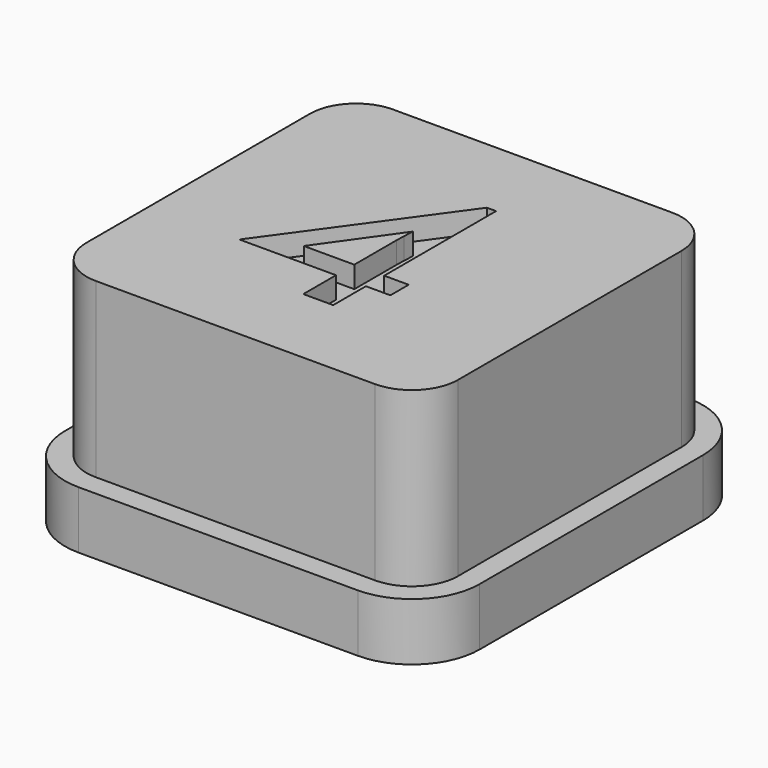
from build123d import *

# Parameters (mm, degrees)
F1_DEPTH = 2
F2_DEPTH = 8
F3_DEPTH = 8
F4_DEPTH = 7.25


with BuildPart() as f1:
    # F0 (on Top) → F1 (new body)
    with BuildSketch(Plane.XY):
        with BuildLine():
            Line((4.85, 7.2), (-4.85, 7.2))
            ThreePointArc((-4.85, 7.2), (-6.5117009358, 6.5117009358), (-7.2, 4.85))
            Line((-7.2, 4.85), (-7.2, -4.85))
            ThreePointArc((-7.2, -4.85), (-6.5117009358, -6.5117009358), (-4.85, -7.2))
            Line((-4.85, -7.2), (4.85, -7.2))
            ThreePointArc((4.85, -7.2), (6.5117009358, -6.5117009358), (7.2, -4.85))
            Line((7.2, -4.85), (7.2, 4.85))
            ThreePointArc((7.2, 4.85), (6.5117009358, 6.5117009358), (4.85, 7.2))
        make_face()
        with BuildLine():
            ThreePointArc((6.45, -4.85), (5.9813708499, -5.9813708499), (4.85, -6.45))
            Line((4.85, -6.45), (-4.85, -6.45))
            ThreePointArc((-4.85, -6.45), (-5.9813708499, -5.9813708499), (-6.45, -4.85))
            Line((-6.45, -4.85), (-6.45, 4.85))
            ThreePointArc((-6.45, 4.85), (-5.9813708499, 5.9813708499), (-4.85, 6.45))
            Line((-4.85, 6.45), (4.85, 6.45))
            ThreePointArc((4.85, 6.45), (5.9813708499, 5.9813708499), (6.45, 4.85))
            Line((6.45, 4.85), (6.45, -4.85))
        make_face(mode=Mode.SUBTRACT)
    extrude(amount=F1_DEPTH)

    # F0 (on Top) → F2 (join)
    with BuildSketch(Plane.XY):
        with BuildLine():
            Line((-4.85, -6.45), (4.85, -6.45))
            ThreePointArc((4.85, -6.45), (5.9813708499, -5.9813708499), (6.45, -4.85))
            Line((6.45, -4.85), (6.45, 4.85))
            ThreePointArc((6.45, 4.85), (5.9813708499, 5.9813708499), (4.85, 6.45))
            Line((4.85, 6.45), (-4.85, 6.45))
            ThreePointArc((-4.85, 6.45), (-5.9813708499, 5.9813708499), (-6.45, 4.85))
            Line((-6.45, 4.85), (-6.45, -4.85))
            ThreePointArc((-6.45, -4.85), (-5.9813708499, -5.9813708499), (-4.85, -6.45))
        make_face()
        Polygon((1.063809, -3.535861), (0.026241, -3.535861), (0.026241, -2.115779), (-3.330316, -2.115779), (0.743454, 3.535861), (1.063809, 3.535861), (1.063809, -1.322063), (1.914902, -1.322063), (1.914902, -2.115779), (1.063809, -2.115779), align=None, mode=Mode.SUBTRACT)
    extrude(amount=F2_DEPTH)



with BuildPart() as f3:
    # F0 (on Top) → F3 (new body)
    with BuildSketch(Plane.XY):
        Polygon((0.033413, 0.820014), (0.05493, 1.192964), (-1.72854, -1.322063), (0.026241, -1.322063), (0.026241, 0.499658), align=None)
    extrude(amount=F3_DEPTH)


with BuildPart() as f1_1:
    add(f1.part)

    add(f3.part)  # F4 merges F3
    # F0 (on Top) → F4 (join)
    with BuildSketch(Plane.XY):
        Polygon((0.026241, -2.115779), (0.026241, -3.535861), (1.063809, -3.535861), (1.063809, -2.115779), (1.914902, -2.115779), (1.914902, -1.322063), (1.063809, -1.322063), (1.063809, 3.535861), (0.743454, 3.535861), (-3.330316, -2.115779), align=None)
        Polygon((-1.72854, -1.322063), (0.05493, 1.192964), (0.033413, 0.820014), (0.026241, 0.499658), (0.026241, -1.322063), align=None, mode=Mode.SUBTRACT)
    extrude(amount=F4_DEPTH)


solid = f1_1.part
